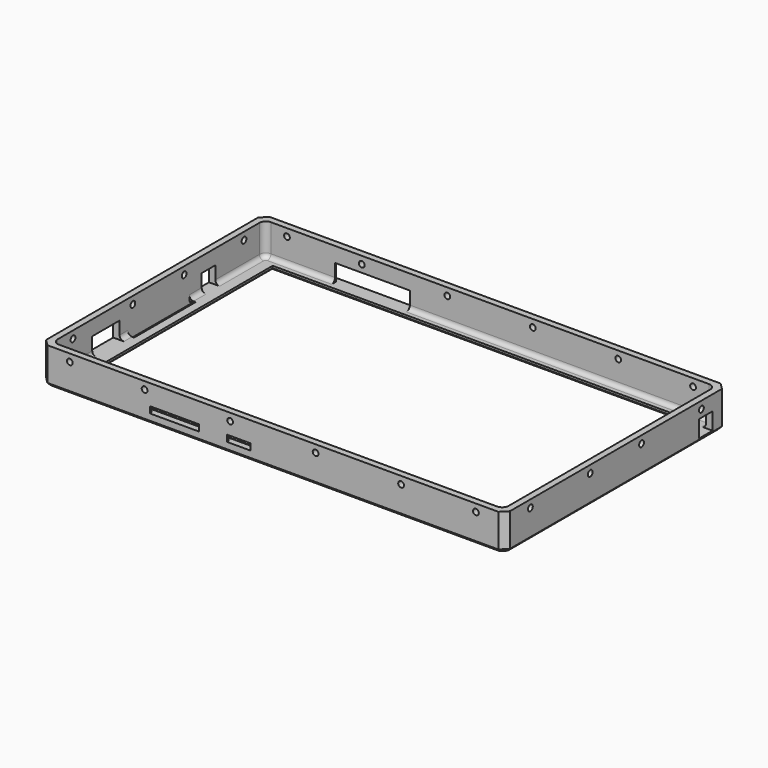
from build123d import *

# Parameters (mm, degrees)
SKETCH_W            = 217
SKETCH_H            = 130
SKETCH_R            = 2
SKETCH_W_2          = 177
SKETCH_H_2          = 116
SKETCH_W_3          = 3
SKETCH_H_3          = 36
PAD_DEPTH           = 17
SKETCH023_W         = 211
SKETCH023_H         = 124
POCKET_DEPTH        = 15
FILLET_R            = 3
CHAMFER_SIZE        = 3
SKETCH024_W         = 8
SKETCH024_H         = 8
SKETCH024_W_2       = 16
POCKET001_DEPTH     = 3
SKETCH025_W         = 23
SKETCH025_H         = 3
SKETCH025_W_2       = 11
POCKET002_DEPTH     = 3
SKETCH026_W         = 1.5
SKETCH026_H         = 3
POCKET003_DEPTH     = 2
FILLET001_R         = 2
CHAMFER011007_SIZE  = 1.5
CHAMFER011008_SIZE  = 1.5
CHAMFER011009_SIZE2 = 1.5
CHAMFER011009_SIZE  = 1
CHAMFER011010_SIZE  = 1.5
CHAMFER011011_SIZE2 = 1.5
CHAMFER011011_SIZE  = 1
SKETCH027_R         = 1.35
POCKET004_DEPTH     = 130.001
SKETCH028_R         = 1.4
POCKET005_DEPTH     = 217.001
SKETCH029_W         = 8
SKETCH029_H         = 8
POCKET006_DEPTH     = 5
SKETCH052_W         = 35
SKETCH052_H         = 8
POCKET024_DEPTH     = 5
CHAMFER011025_SIZE  = 2.5
SKETCH054_W         = 197
SKETCH054_H         = 116
POCKET026_DEPTH     = 17.001
SKETCH055_W         = 197
SKETCH055_H         = 1
PAD009_DEPTH        = 2
CHAMFER011026_SIZE  = 1


with BuildPart() as part:
    # Sketch → Pad (new body)
    with BuildSketch(Plane.XY):
        Rectangle(SKETCH_W, SKETCH_H)
        with Locations((-94.5, 38.75)):
            Circle(SKETCH_R, mode=Mode.SUBTRACT)
        Rectangle(SKETCH_W_2, SKETCH_H_2, mode=Mode.SUBTRACT)
        with Locations((-104, 0)):
            Rectangle(SKETCH_W_3, SKETCH_H_3, mode=Mode.SUBTRACT)
        with Locations((104, 0)):
            Rectangle(SKETCH_W_3, SKETCH_H_3, mode=Mode.SUBTRACT)
        with BuildLine():
            ThreePointArc((-92.5, -37.75), (-94.5, -35.75), (-96.5, -37.75))
            Line((-96.5, -37.75), (-96.5, -42.75))
            ThreePointArc((-96.5, -42.75), (-94.5, -44.75), (-92.5, -42.75))
            Line((-92.5, -37.75), (-92.5, -42.75))
        make_face(mode=Mode.SUBTRACT)
    extrude(amount=PAD_DEPTH)

    # Sketch023 (on Face23 of Pad) → Pocket (cut)
    with BuildSketch(Plane.XY.offset(17)):
        Rectangle(SKETCH023_W, SKETCH023_H)
    extrude(amount=-POCKET_DEPTH, mode=Mode.SUBTRACT)

    # Fillet
    fillet_edges = [part.edges().sort_by_distance(p)[0] for p in [
        (105.5, -62, 9.5),
        (-105.5, -62, 9.5),
        (-105.5, 62, 9.5),
        (105.5, 62, 9.5),
    ]]
    fillet(fillet_edges, radius=FILLET_R)

    # Chamfer
    chamfer_edges = [part.edges().sort_by_distance(p)[0] for p in [
        (-108.5, -65, 8.5),
        (108.5, -65, 8.5),
        (108.5, 65, 8.5),
        (-108.5, 65, 8.5),
    ]]
    chamfer(chamfer_edges, length=CHAMFER_SIZE)

    # Sketch024 (on DatumPlane) → Pocket001 (cut)
    with BuildSketch(Plane.YZ.offset(-108.5)):
        with Locations((29.25, 6)):
            Rectangle(SKETCH024_W, SKETCH024_H)
        with Locations((-30.75, 6)):
            Rectangle(SKETCH024_W_2, SKETCH024_H)
    extrude(amount=POCKET001_DEPTH, mode=Mode.SUBTRACT)

    # Sketch025 (on DatumPlane) → Pocket002 (cut)
    with BuildSketch(Plane.XZ.offset(65)):
        with Locations((-46, 6)):
            Rectangle(SKETCH025_W, SKETCH025_H)
        with Locations((-16, 6)):
            Rectangle(SKETCH025_W_2, SKETCH025_H)
    extrude(amount=-POCKET002_DEPTH, mode=Mode.SUBTRACT)

    # Sketch026 (on DatumPlane) → Pocket003 (cut)
    with BuildSketch(Plane.XZ.offset(62)):
        with Locations((-58.25, 6)):
            Rectangle(SKETCH026_W, SKETCH026_H)
        with Locations((-33.75, 6)):
            Rectangle(SKETCH026_W, SKETCH026_H)
        with Locations((-22.25, 6)):
            Rectangle(SKETCH026_W, SKETCH026_H)
        with Locations((-9.75, 6)):
            Rectangle(SKETCH026_W, SKETCH026_H)
    extrude(amount=POCKET003_DEPTH, mode=Mode.SUBTRACT)

    # Fillet001
    fillet001_edges = [part.edges().sort_by_distance(p)[0] for p in [
        (104.62132, -61.12132, 2),
        (-105.5, -20.375, 2),
        (-105.5, 21.625, 2),
        (-105.5, 46.125, 2),
    ]]
    fillet(fillet001_edges, radius=FILLET001_R)

    # Chamfer011007
    chamfer011007_edges = [part.edges().sort_by_distance(p)[0] for p in [
        (-96.5, 38.75, 0),
    ]]
    chamfer(chamfer011007_edges, length=CHAMFER011007_SIZE)

    # Chamfer011008
    chamfer011008_edges = [part.edges().sort_by_distance(p)[0] for p in [
        (-92.5, -40.25, 0),
    ]]
    chamfer(chamfer011008_edges, length=CHAMFER011008_SIZE)

    # Chamfer011009
    chamfer011009_edges = [part.edges().sort_by_distance(p)[0] for p in [
        (-88.5, 0, 0),
        (0, -58, 0),
        (0, 58, 0),
        (88.5, 0, 0),
    ]]
    chamfer011009_side = part.faces().sort_by_distance((-94.5, -48.779605, 0))[0]
    chamfer(chamfer011009_edges, length=CHAMFER011009_SIZE, length2=CHAMFER011009_SIZE2, reference=chamfer011009_side)

    # Chamfer011010
    chamfer011010_edges = [part.edges().sort_by_distance(p)[0] for p in [
        (-108.5, 0, 0),
        (-107, -63.5, 0),
        (0, -65, 0),
        (-107, 63.5, 0),
        (0, 65, 0),
        (107, 63.5, 0),
        (108.5, 0, 0),
        (107, -63.5, 0),
    ]]
    chamfer(chamfer011010_edges, length=CHAMFER011010_SIZE)

    # Chamfer011011
    chamfer011011_edges = [part.edges().sort_by_distance(p)[0] for p in [
        (-104, -18, 0),
        (-102.5, 0, 0),
        (-104, 18, 0),
        (104, -18, 0),
        (102.5, 0, 0),
        (104, 18, 0),
    ]]
    chamfer011011_side = part.faces().sort_by_distance((-106.751153, 0, 0))[0]
    chamfer(chamfer011011_edges, length=CHAMFER011011_SIZE, length2=CHAMFER011011_SIZE2, reference=chamfer011011_side)

    # Sketch027 (on DatumPlane) → Pocket004 (cut, through all)
    with BuildSketch(Plane.XZ.offset(65)):
        with Locations((-95, 13.5)):
            Circle(SKETCH027_R)
        with Locations((95, 13.5)):
            Circle(SKETCH027_R)
        with Locations((-60, 13.5)):
            Circle(SKETCH027_R)
        with Locations((60, 13.5)):
            Circle(SKETCH027_R)
        with Locations((-20, 13.5)):
            Circle(SKETCH027_R)
        with Locations((20, 13.5)):
            Circle(SKETCH027_R)
    extrude(amount=-POCKET004_DEPTH, mode=Mode.SUBTRACT)

    # Sketch028 (on DatumPlane) → Pocket005 (cut, through all)
    with BuildSketch(Plane.YZ.offset(-108.5)):
        with Locations((-15, 13.5)):
            Circle(SKETCH028_R)
        with Locations((15, 13.5)):
            Circle(SKETCH028_R)
        with Locations((50, 13.5)):
            Circle(SKETCH028_R)
        with Locations((-50, 13.5)):
            Circle(SKETCH028_R)
    extrude(amount=POCKET005_DEPTH, mode=Mode.SUBTRACT)

    # Sketch029 (on DatumPlane) → Pocket006 (cut)
    with BuildSketch(Plane.YZ.offset(108.5)):
        with Locations((52.5, 6)):
            Rectangle(SKETCH029_W, SKETCH029_H)
    extrude(amount=-POCKET006_DEPTH, mode=Mode.SUBTRACT)

    # Sketch052 (on Face51 of Pocket006) → Pocket024 (cut)
    with BuildSketch(Plane(origin=(0, 65, 0), x_dir=(-1, 0, 0), z_dir=(0, 1, 0))):
        with Locations((55, 6)):
            Rectangle(SKETCH052_W, SKETCH052_H)
    extrude(amount=-POCKET024_DEPTH, mode=Mode.SUBTRACT)

    # Chamfer011025
    chamfer011025_edges = [part.edges().sort_by_distance(p)[0] for p in [
        (-72.5, 65, 6),
        (-37.5, 65, 6),
    ]]
    chamfer(chamfer011025_edges, length=CHAMFER011025_SIZE)

    # Sketch054 (on Face22 of Chamfer011025) → Pocket026 (cut, through all)
    with BuildSketch(Plane(origin=(0, 0, 0), x_dir=(1, 0, 0), z_dir=(0, 0, -1))):
        Rectangle(SKETCH054_W, SKETCH054_H)
    extrude(amount=-POCKET026_DEPTH, mode=Mode.SUBTRACT)

    # Sketch055 (on Face22 of Pocket026) → Pad009 (join)
    with BuildSketch(Plane(origin=(0, 0, 0), x_dir=(1, 0, 0), z_dir=(0, 0, -1))):
        with Locations((0, -58.5)):
            Rectangle(SKETCH055_W, SKETCH055_H)
        with Locations((0, 58.5)):
            Rectangle(SKETCH055_W, SKETCH055_H)
    extrude(amount=-PAD009_DEPTH)

    # Chamfer011026
    chamfer011026_edges = [part.edges().sort_by_distance(p)[0] for p in [
        (-98.5, 0, 0),
        (0, -58, 0),
        (98.5, 0, 0),
        (0, 58, 0),
    ]]
    chamfer(chamfer011026_edges, length=CHAMFER011026_SIZE)


solid = part.part
